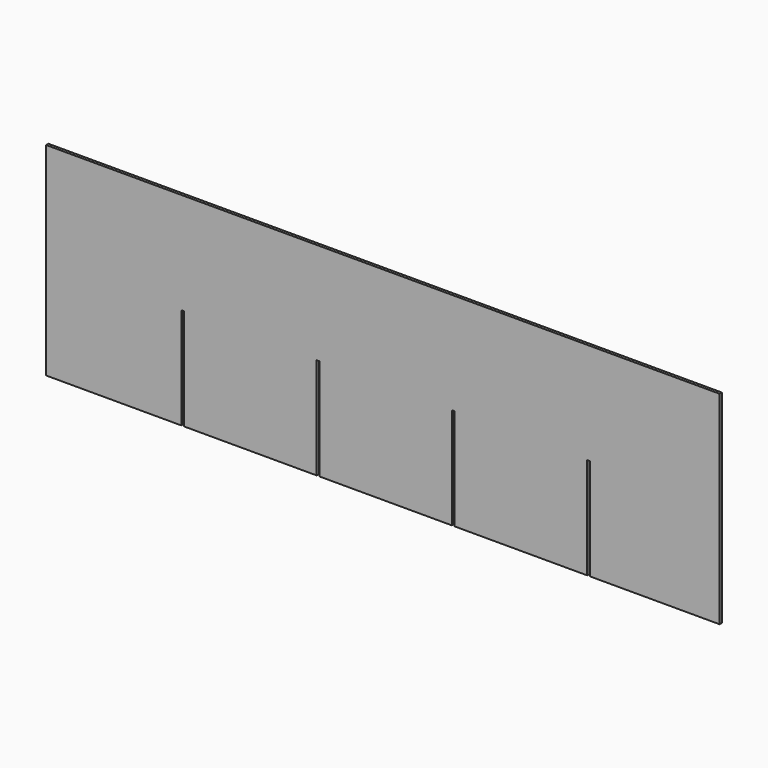
from build123d import *

# Parameters (mm, degrees)
F1_DEPTH = 1


with BuildPart() as f1:
    # F0 (on Front) → F1 (new body, symmetric)
    with BuildSketch(Plane.XZ):
        Polygon((-239, 72), (-239, -72), (-143, -72), (-143, 0), (-141, 0), (-141, -72), (-47, -72), (-47, 0), (-45, 0), (-45, -72), (49, -72), (49, 0), (51, 0), (51, -72), (145, -72), (145, 0), (147, 0), (147, -72), (239, -72), (239, 72), align=None)
    extrude(amount=F1_DEPTH, both=True)


solid = f1.part
